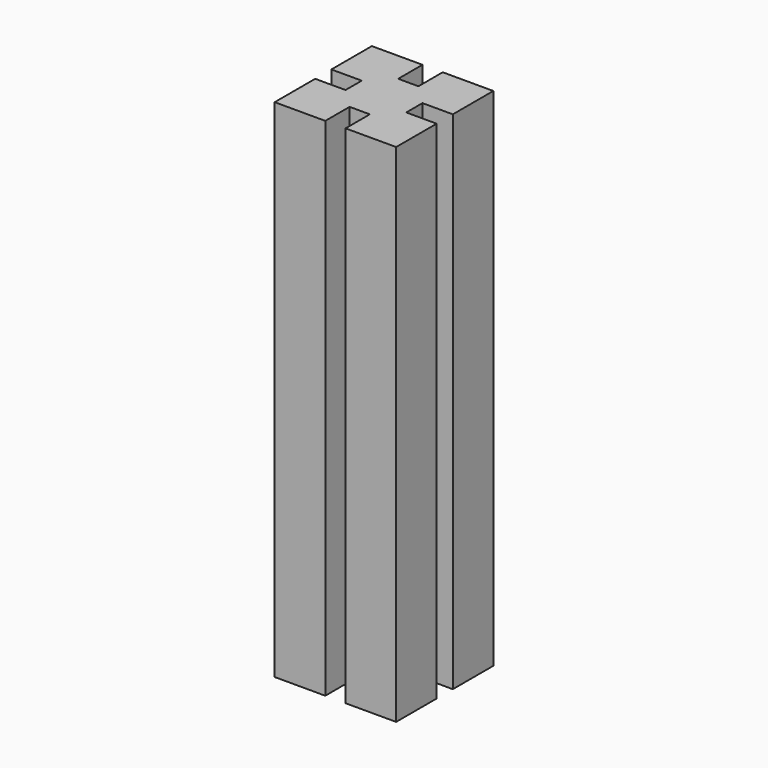
from build123d import *

# Parameters (mm, degrees)
PAD_DEPTH = 50


with BuildPart() as part:
    # Sketch → Pad (new body)
    with BuildSketch(Plane.XY):
        Polygon((0, 0), (5, 0), (5, 3), (7, 3), (7, 0), (12, 0), (12, 5), (9, 5), (9, 7), (12, 7), (12, 12), (7, 12), (7, 9), (5, 9), (5, 12), (0, 12), (0, 7), (3, 7), (3, 5), (0, 5), align=None)
    extrude(amount=PAD_DEPTH)


solid = part.part
